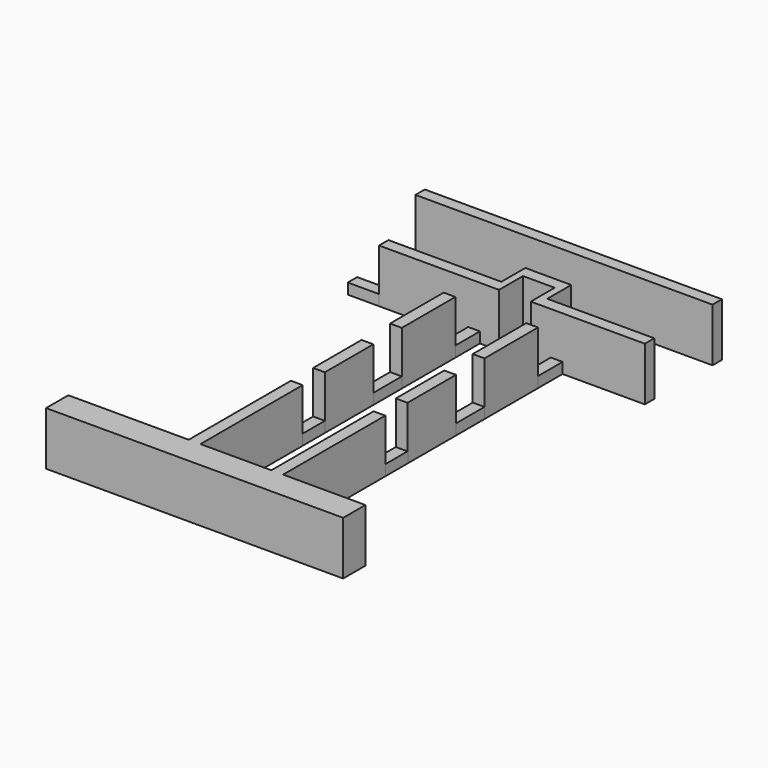
from build123d import *

# Parameters (mm, degrees)
F0_W     = 0.8382
F0_H     = 1.9417995741
F0_H_2   = 9.1072004259
F0_H_3   = 1.9417967643
F0_H_4   = 9.1072032357
F1_DEPTH = 3.81
F0_H_5   = 4.318
F0_H_6   = 4.7752
F0_W_2   = 2.2600471539
F0_H_7   = 0.8382
F0_W_3   = 21.1832629488
F2_W     = 2.2298406
F2_H     = 0.8382
F3_DEPTH = 0.762
F2_W_2   = 0.8382
F2_H_2   = 2.2098
F2_H_3   = 2.5654
F2_H_4   = 2.0066


with BuildPart() as f1:
    # F0 (on Top) → F1 (new body)
    with BuildSketch(Plane.XY):
        with Locations((-24.7812528231, -75.1912873556)):
            Rectangle(F0_W, F0_H)
        Polygon((-24.3621528231, -76.1621871427), (-25.2003528231, -76.1621871427), (-25.2003528231, -74.2203875685), (-33.7855493596, -74.2203875685), (-33.7855493596, -76.2015875685), (-12.6018980518, -76.2015875685), (-12.6018980518, -74.2203875685), (-18.4693528231, -74.2203875685), (-18.4693528231, -76.1621843328), (-19.3075528231, -76.1621843328), (-19.3075528231, -74.2203875685), (-24.3621528231, -74.2203875685), align=None)
        with Locations((-24.7812528231, -69.6667873556)):
            Rectangle(F0_W, F0_H_2)
        with Locations((-18.8884528231, -75.1912859507)):
            Rectangle(F0_W, F0_H_3)
        with Locations((-18.8884528231, -69.6667859507)):
            Rectangle(F0_W, F0_H_4)
    extrude(amount=F1_DEPTH)


with BuildPart() as f1b:
    # F0 (on Top) → F1, piece 2 (new body)
    with BuildSketch(Plane.XY):
        with Locations((-24.7812528231, -60.9729871427)):
            Rectangle(F0_W, F0_H_5)
    extrude(amount=F1_DEPTH)


with BuildPart() as f1c:
    # F0 (on Top) → F1, piece 3 (new body)
    with BuildSketch(Plane.XY):
        with Locations((-18.8884528231, -60.9729843328)):
            Rectangle(F0_W, F0_H_5)
    extrude(amount=F1_DEPTH)


with BuildPart() as f1d:
    # F0 (on Top) → F1, piece 4 (new body)
    with BuildSketch(Plane.XY):
        with Locations((-24.7812493596, -53.8863871427)):
            Rectangle(F0_W, F0_H_6)
    extrude(amount=F1_DEPTH)


with BuildPart() as f1e:
    # F0 (on Top) → F1, piece 5 (new body)
    with BuildSketch(Plane.XY):
        with Locations((-18.8884493596, -53.8863843328)):
            Rectangle(F0_W, F0_H_6)
    extrude(amount=F1_DEPTH)


with BuildPart() as f1f:
    # F0 (on Top) → F1, piece 6 (new body)
    with BuildSketch(Plane.XY):
        Polygon((-31.5557122231, -49.3143871427), (-22.9968010945, -49.3143871427), (-22.9968010945, -48.4761871427), (-23.5048010945, -48.4761871427), (-31.5557122231, -48.4761871427), align=None)
        Polygon((-23.5048010945, -48.4761871427), (-22.9968010945, -48.4761871427), (-22.9968010945, -47.1809990704), (-22.9968010945, -46.3427990704), (-22.9968010945, -46.3349238067), (-23.5048010945, -46.3349238067), align=None)
        with Locations((-21.8667775176, -46.7618990704)):
            Rectangle(F0_W_2, F0_H_7)
        Polygon((-20.7367539406, -46.3427990704), (-20.7367539406, -47.1809990704), (-20.7367539406, -48.4761843328), (-20.2287539406, -48.4761843328), (-20.2287539406, -46.3427990704), align=None)
        Polygon((-20.2287539406, -48.4761843328), (-20.7367539406, -48.4761843328), (-20.7367539406, -49.3143843328), (-12.6017937437, -49.3143843328), (-12.6017937437, -48.4761843328), align=None)
    extrude(amount=F1_DEPTH)


with BuildPart() as f1g:
    # F0 (on Top) → F1, piece 7 (new body)
    with BuildSketch(Plane.XY):
        with Locations((-23.1939016856, -42.8647909328)):
            Rectangle(F0_W_3, F0_H_7)
    extrude(amount=F1_DEPTH)


with BuildPart() as f3:
    # F2 (on Top) → F3 (new body)
    with BuildSketch(Plane.XY):
        with Locations((-32.6705976321, -48.8953012973)):
            Rectangle(F2_W, F2_H)
    extrude(amount=F3_DEPTH)


with BuildPart() as f3b:
    # F2 (on Top) → F3, piece 2 (new body)
    with BuildSketch(Plane.XY):
        with Locations((-24.7812520727, -50.393885615)):
            Rectangle(F2_W_2, F2_H_2)
    extrude(amount=F3_DEPTH)


with BuildPart() as f3c:
    # F2 (on Top) → F3, piece 3 (new body)
    with BuildSketch(Plane.XY):
        with Locations((-18.8873026535, -50.3936360205)):
            Rectangle(F2_W_2, F2_H_2)
    extrude(amount=F3_DEPTH)


with BuildPart() as f3d:
    # F2 (on Top) → F3, piece 4 (new body)
    with BuildSketch(Plane.XY):
        with Locations((-24.7808683678, -57.531244459)):
            Rectangle(F2_W_2, F2_H_3)
    extrude(amount=F3_DEPTH)


with BuildPart() as f3e:
    # F2 (on Top) → F3, piece 5 (new body)
    with BuildSketch(Plane.XY):
        with Locations((-24.7811310008, -64.1099464409)):
            Rectangle(F2_W_2, F2_H_4)
    extrude(amount=F3_DEPTH)


with BuildPart() as f3f:
    # F2 (on Top) → F3, piece 6 (new body)
    with BuildSketch(Plane.XY):
        with Locations((-18.8885375872, -57.5315424822)):
            Rectangle(F2_W_2, F2_H_3)
    extrude(amount=F3_DEPTH)


with BuildPart() as f3g:
    # F2 (on Top) → F3, piece 7 (new body)
    with BuildSketch(Plane.XY):
        with Locations((-18.8882321134, -64.1101997606)):
            Rectangle(F2_W_2, F2_H_4)
    extrude(amount=F3_DEPTH)


solid = Compound([f1.part, f1b.part, f1c.part, f1d.part, f1e.part, f1f.part, f1g.part, f3.part, f3b.part, f3c.part, f3d.part, f3e.part, f3f.part, f3g.part])
